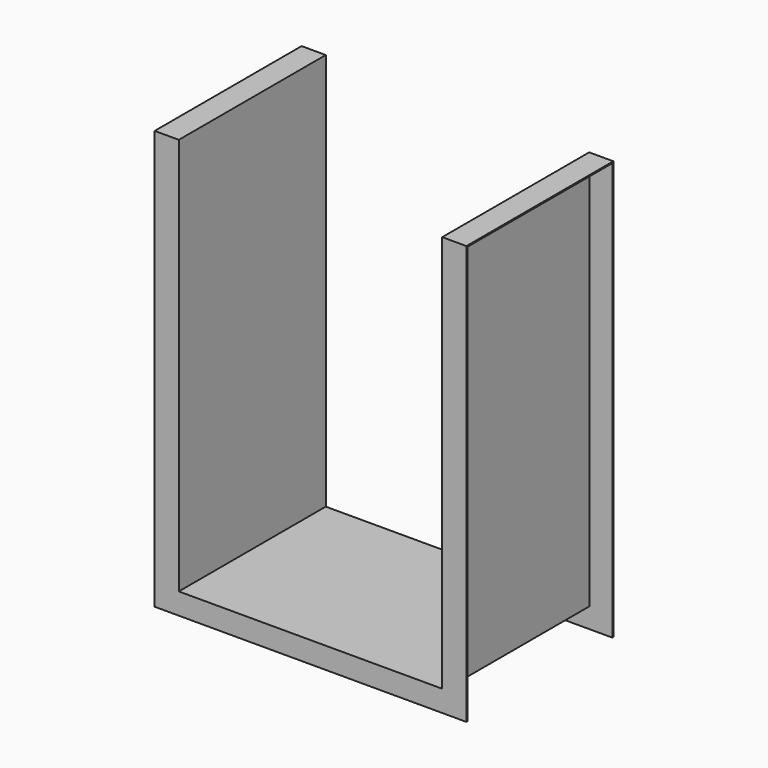
from build123d import *

# Parameters (mm, degrees)
F1_DEPTH = 450
F2_T     = -3
F3_W     = 60
F3_H     = 450
F4_DEPTH = 3
F6_DEPTH = 3
F8_DEPTH = 3


with BuildPart() as f1:
    # F0 (on Front) → F1 (new body)
    with BuildSketch(Plane.XZ):
        Polygon((330, 990), (-330, 990), (-330, 0), (0, 0), (330, 0), align=None)
    extrude(amount=F1_DEPTH)

    # F2
    f2_openings = [f1.faces().sort_by_distance(p)[0] for p in [
        (0, -450, 495),
        (0, -225, 990),
        (0, 0, 495),
    ]]
    offset(amount=F2_T, openings=f2_openings)

    # F3 (on face) → F4 (join)
    with BuildSketch(Plane.XY.offset(990)):
        with Locations((-357, -225)):
            Rectangle(F3_W, F3_H)
        with Locations((357, -225)):
            Rectangle(F3_W, F3_H)
    extrude(amount=-F4_DEPTH)

    # F5 (on face) → F6 (join)
    with BuildSketch(Plane(origin=(0, 0, 0), x_dir=(-1, 0, 0), z_dir=(0, 1, 0))):
        Polygon((387, 990), (327, 990), (327, 3), (-327, 3), (-327, 990), (-387, 990), (-387, -50), (22.530401, -50), (387, -50), align=None)
    extrude(amount=F6_DEPTH)

    # F7 (on face) → F8 (join)
    with BuildSketch(Plane.XZ.offset(450)):
        Polygon((387, -50), (387, 990), (327, 990), (327, 3), (-327, 3), (-327, 990), (-387, 990), (-387, -50), (35.580868, -50), align=None)
    extrude(amount=F8_DEPTH)


solid = f1.part
